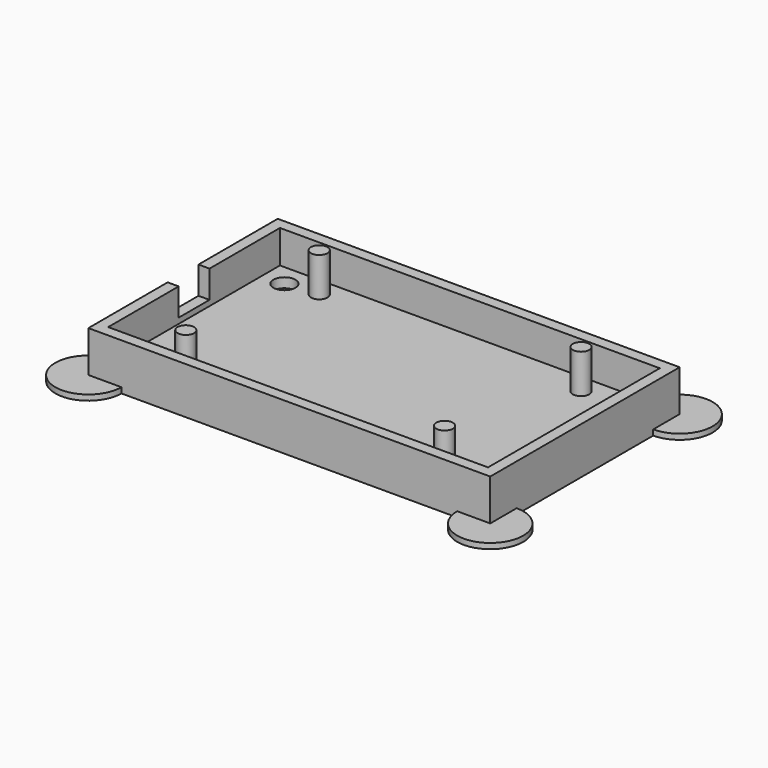
from build123d import *

# Parameters (mm, degrees)
F0_R           = 2
F0_R_2         = 1.5
F0_W           = 2
F0_H           = 7
F1_DEPTH       = 2.5
F2_DEPTH       = 8.5
F3_DEPTH       = 9.6
F4_DEPTH       = 3.5
F5_D           = 3
F5_CSINK_D     = 5.5
F5_CSINK_ANGLE = 90
F6_DEPTH       = 1


with BuildPart() as f1:
    # F0 (on Top) → F1 (new body)
    with BuildSketch(Plane.XY):
        Polygon((57.2425711751, 68.4110085815), (-11.7574288249, 68.4110085815), (-11.7574288249, 52.4110085815), (-11.7574288249, 45.4110085815), (-11.7574288249, 29.4110085815), (57.2425711751, 29.4110085815), align=None)
        with Locations((-7.7574288249, 33.4110085815)):
            Circle(F0_R, mode=Mode.SUBTRACT)
        with Locations((-1.2574288249, 33.9110085815)):
            Circle(F0_R_2, mode=Mode.SUBTRACT)
        with Locations((45.7425711751, 33.9110085815)):
            Circle(F0_R_2, mode=Mode.SUBTRACT)
        with Locations((53.2425711751, 33.4110085815)):
            Circle(F0_R, mode=Mode.SUBTRACT)
        with Locations((-7.7574288249, 64.4110085815)):
            Circle(F0_R, mode=Mode.SUBTRACT)
        with Locations((-1.8220887287, 64.9110085815)):
            Circle(F0_R_2, mode=Mode.SUBTRACT)
        with Locations((45.7425711751, 64.9110085815)):
            Circle(F0_R_2, mode=Mode.SUBTRACT)
        with Locations((53.2425711751, 64.4110085815)):
            Circle(F0_R, mode=Mode.SUBTRACT)
        Polygon((-11.7574288249, 52.4110085815), (-11.7574288249, 68.4110085815), (57.2425711751, 68.4110085815), (57.2425711751, 29.4110085815), (-11.7574288249, 29.4110085815), (-11.7574288249, 45.4110085815), (-13.7574288249, 45.4110085815), (-13.7574288249, 33.4110085815), (-13.7574288249, 27.4110085815), (-7.7574288249, 27.4110085815), (53.2425711751, 27.4110085815), (59.2425711751, 27.4110085815), (59.2425711751, 33.4110085815), (59.2425711751, 64.4110085815), (59.2425711751, 70.4110085815), (53.2425711751, 70.4110085815), (-7.7574288249, 70.4110085815), (-13.7574288249, 70.4110085815), (-13.7574288249, 64.4110085815), (-13.7574288249, 52.4110085815), align=None)
        with Locations((-1.2574288249, 33.9110085815)):
            Circle(F0_R_2)
        with Locations((45.7425711751, 33.9110085815)):
            Circle(F0_R_2)
        with Locations((45.7425711751, 64.9110085815)):
            Circle(F0_R_2)
        with Locations((-1.8220887287, 64.9110085815)):
            Circle(F0_R_2)
        with Locations((-12.7574288249, 48.9110085815)):
            Rectangle(F0_W, F0_H)
    extrude(amount=F1_DEPTH)

    # F0 (on Top) → F2 (join)
    with BuildSketch(Plane.XY):
        Polygon((-11.7574288249, 52.4110085815), (-11.7574288249, 68.4110085815), (57.2425711751, 68.4110085815), (57.2425711751, 29.4110085815), (-11.7574288249, 29.4110085815), (-11.7574288249, 45.4110085815), (-13.7574288249, 45.4110085815), (-13.7574288249, 33.4110085815), (-13.7574288249, 27.4110085815), (-7.7574288249, 27.4110085815), (53.2425711751, 27.4110085815), (59.2425711751, 27.4110085815), (59.2425711751, 33.4110085815), (59.2425711751, 64.4110085815), (59.2425711751, 70.4110085815), (53.2425711751, 70.4110085815), (-7.7574288249, 70.4110085815), (-13.7574288249, 70.4110085815), (-13.7574288249, 64.4110085815), (-13.7574288249, 52.4110085815), align=None)
    extrude(amount=F2_DEPTH)

    # F0 (on Top) → F3 (join)
    with BuildSketch(Plane.XY):
        with Locations((-1.8220887287, 64.9110085815)):
            Circle(F0_R_2)
        with Locations((-1.2574288249, 33.9110085815)):
            Circle(F0_R_2)
        with Locations((45.7425711751, 33.9110085815)):
            Circle(F0_R_2)
        with Locations((45.7425711751, 64.9110085815)):
            Circle(F0_R_2)
    extrude(amount=F3_DEPTH)

    # F0 (on Top) → F4 (join)
    with BuildSketch(Plane.XY):
        with Locations((-12.7574288249, 48.9110085815)):
            Rectangle(F0_W, F0_H)
    extrude(amount=F4_DEPTH)

    # F5 (through all)
    with Locations(Plane(origin=(0, 0, 0), x_dir=(1, 0, 0), z_dir=(0, 0, -1))):
        with Locations((53.2425711751, -64.4110085815), (53.2425711751, -33.4110085815), (-7.7574288249, -33.4110085815), (-7.7574288249, -64.4110085815)):
            CounterSinkHole(F5_D / 2, F5_CSINK_D / 2, counter_sink_angle=F5_CSINK_ANGLE)

    # F0 (on Top) → F6 (join)
    with BuildSketch(Plane.XY):
        with BuildLine():
            ThreePointArc((-7.7574288249, 70.4110085815), (-18.000069512, 74.6536492686), (-13.7574288249, 64.4110085815))
            Line((-13.7574288249, 64.4110085815), (-13.7574288249, 70.4110085815))
            Line((-13.7574288249, 70.4110085815), (-7.7574288249, 70.4110085815))
        make_face()
        with BuildLine():
            ThreePointArc((59.2425711751, 64.4110085815), (63.4852118622, 74.6536492686), (53.2425711751, 70.4110085815))
            Line((53.2425711751, 70.4110085815), (59.2425711751, 70.4110085815))
            Line((59.2425711751, 70.4110085815), (59.2425711751, 64.4110085815))
        make_face()
        with BuildLine():
            Line((59.2425711751, 27.4110085815), (53.2425711751, 27.4110085815))
            ThreePointArc((53.2425711751, 27.4110085815), (63.4852118622, 23.1683678944), (59.2425711751, 33.4110085815))
            Line((59.2425711751, 33.4110085815), (59.2425711751, 27.4110085815))
        make_face()
        with BuildLine():
            Line((-13.7574288249, 27.4110085815), (-13.7574288249, 33.4110085815))
            ThreePointArc((-13.7574288249, 33.4110085815), (-18.000069512, 23.1683678944), (-7.7574288249, 27.4110085815))
            Line((-7.7574288249, 27.4110085815), (-13.7574288249, 27.4110085815))
        make_face()
    extrude(amount=F6_DEPTH)


solid = f1.part
